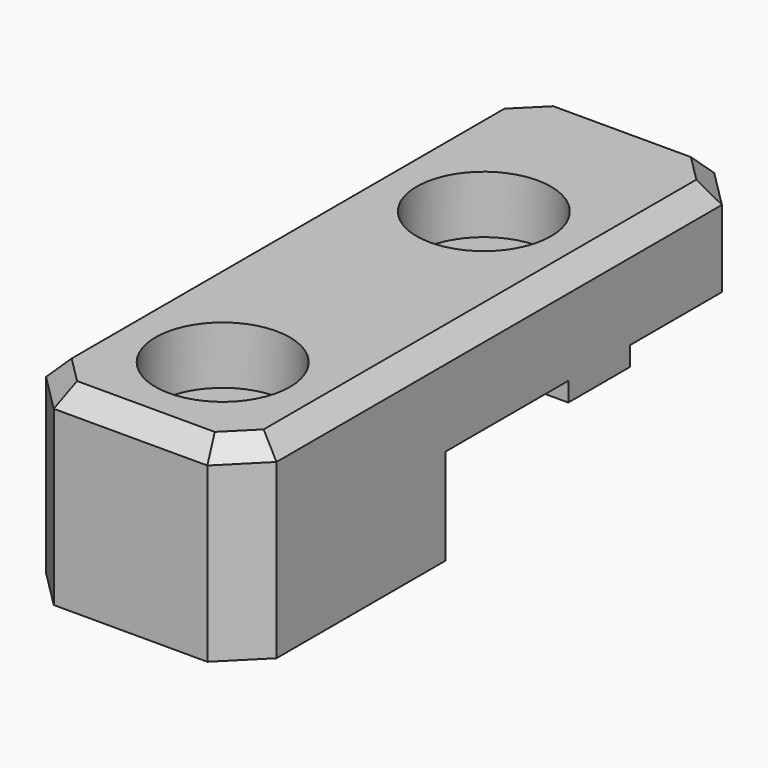
from build123d import *

# Parameters (mm, degrees)
CYLINDER029_R      = 3.5
CYLINDER029_DEPTH  = 3
CYLINDER030_R      = 3.5
CYLINDER030_DEPTH  = 3
CYLINDER031_R      = 1.65
CYLINDER031_DEPTH  = 15
CYLINDER032_R      = 1.65
CYLINDER032_DEPTH  = 15
BOX023_W           = 12
BOX023_H           = 13
BOX023_DEPTH       = 5
BOX019_W           = 12
BOX019_H           = 33
BOX019_DEPTH       = 5
CHAMFER006011_SIZE = 2
CHAMFER006012_SIZE = 1
BOX025_W           = 4
BOX025_H           = 4
BOX025_DEPTH       = 1
BOX026_W           = 4
BOX026_H           = 4
BOX026_DEPTH       = 1


with BuildPart() as cylinder029:
    # Cylinder029 → Cylinder029 (new body)
    with BuildSketch(Plane(origin=(19, 77, 32), x_dir=(1, 0, 0), z_dir=(0, 0, 1))):
        Circle(CYLINDER029_R)
    extrude(amount=CYLINDER029_DEPTH)


with BuildPart() as fusion024004:
    # Cylinder030 → Cylinder030 (new body)
    with BuildSketch(Plane(origin=(19, 60, 32), x_dir=(1, 0, 0), z_dir=(0, 0, 1))):
        Circle(CYLINDER030_R)
    extrude(amount=CYLINDER030_DEPTH)

    # Fusion024004: union Cylinder029
    add(cylinder029.part)


with BuildPart() as fusion024004_1:
    # Fusion024004 placement: moved
    add(fusion024004.part.moved(Location((0, 0, 10))))


with BuildPart() as cylinder031:
    # Cylinder031 → Cylinder031 (new body)
    with BuildSketch(Plane(origin=(19, 60, 32), x_dir=(1, 0, 0), z_dir=(0, 0, 1))):
        Circle(CYLINDER031_R)
    extrude(amount=CYLINDER031_DEPTH)


with BuildPart() as fusion024003:
    # Cylinder032 → Cylinder032 (new body)
    with BuildSketch(Plane(origin=(19, 77, 32), x_dir=(1, 0, 0), z_dir=(0, 0, 1))):
        Circle(CYLINDER032_R)
    extrude(amount=CYLINDER032_DEPTH)

    # Fusion024003: union Cylinder031
    add(cylinder031.part)


with BuildPart() as cube023:
    # Box023 → Box023 (new body)
    with BuildSketch(Plane(origin=(13, 54, 35), x_dir=(1, 0, 0), z_dir=(0, 0, 1))):
        with Locations((6, 6.5)):
            Rectangle(BOX023_W, BOX023_H)
    extrude(amount=BOX023_DEPTH)


with BuildPart() as cut003002006013012006025005:
    # Box019 → Box019 (new body)
    with BuildSketch(Plane(origin=(13, 54, 40), x_dir=(1, 0, 0), z_dir=(0, 0, 1))):
        with Locations((6, 16.5)):
            Rectangle(BOX019_W, BOX019_H)
    extrude(amount=BOX019_DEPTH)

    # Fusion024002: union Cube023
    add(cube023.part)

    # Chamfer006011
    chamfer006011_edges = [cut003002006013012006025005.edges().sort_by_distance(p)[0] for p in [
        (13, 54, 42.5),
        (13, 87, 42.5),
        (25, 54, 42.5),
        (25, 87, 42.5),
    ]]
    chamfer(chamfer006011_edges, length=CHAMFER006011_SIZE)

    # Chamfer006012
    chamfer006012_edges = [cut003002006013012006025005.edges().sort_by_distance(p)[0] for p in [
        (13, 70.5, 45),
        (14, 55, 45),
        (14, 86, 45),
        (19, 54, 45),
        (19, 87, 45),
        (24, 55, 45),
        (24, 86, 45),
        (25, 70.5, 45),
    ]]
    chamfer(chamfer006012_edges, length=CHAMFER006012_SIZE)

    # Cut003002006013012006025004: cut Fusion024003
    add(fusion024003.part, mode=Mode.SUBTRACT)

    # Cut003002006013012006025005: cut Fusion024004
    add(fusion024004_1.part, mode=Mode.SUBTRACT)


with BuildPart() as cube025:
    # Box025 → Box025 (new body)
    with BuildSketch(Plane(origin=(13, 75, 0), x_dir=(1, 0, 0), z_dir=(0, 0, 1))):
        with Locations((2, 2)):
            Rectangle(BOX025_W, BOX025_H)
    extrude(amount=BOX025_DEPTH)


with BuildPart() as obj1:
    # Box026 → Box026 (new body)
    with BuildSketch(Plane(origin=(21, 75, 0), x_dir=(1, 0, 0), z_dir=(0, 0, 1))):
        with Locations((2, 2)):
            Rectangle(BOX026_W, BOX026_H)
    extrude(amount=BOX026_DEPTH)

    # Fusion024005: union Cube025
    add(cube025.part)


with BuildPart() as obj1_1:
    # Fusion024005 placement: moved
    add(obj1.part.moved(Location((0, 0, 39))))

    # Fusion024006: union Cut003002006013012006025005
    add(cut003002006013012006025005.part)


solid = obj1_1.part
